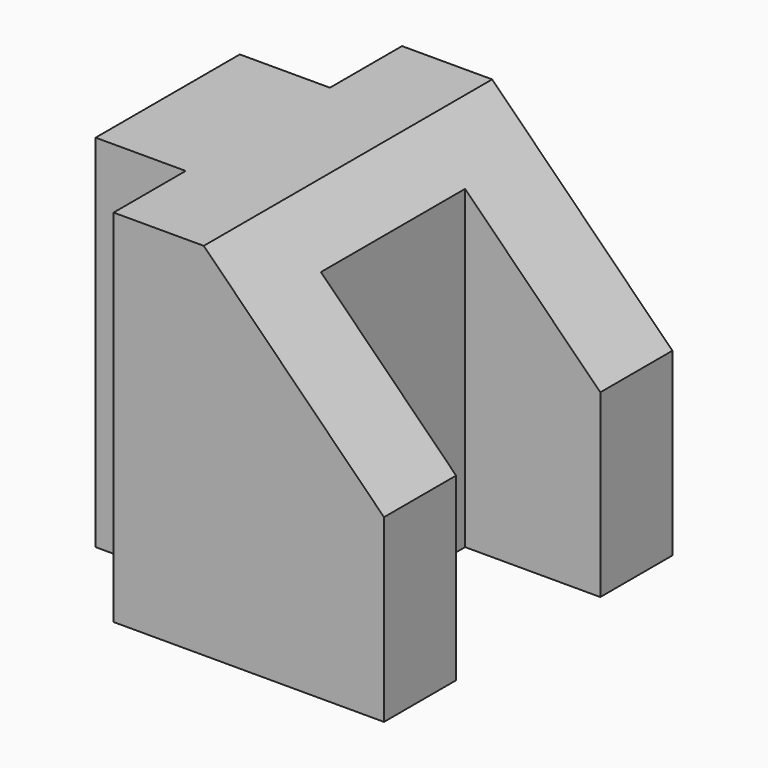
from build123d import *

# Parameters (mm, degrees)
F1_DEPTH = 25.4
F3_DEPTH = 50.801


with BuildPart() as f1:
    # F0 (on Top) → F1 (new body, symmetric)
    with BuildSketch(Plane.XY):
        Polygon((25.4, 50.8), (25.4, 0), (50.8, 0), (50.8, 12.7), (31.75, 12.7), (31.75, 38.1), (50.8, 38.1), (50.8, 50.8), align=None)
        Polygon((25.4, 50.8), (25.4, 0), (50.8, 0), (50.8, 12.7), (31.75, 12.7), (31.75, 38.1), (50.8, 38.1), (50.8, 50.8), align=None)
        Polygon((12.7, 12.7), (12.7, 0), (25.4, 0), (25.4, 50.8), (12.7, 50.8), (12.7, 38.1), (0, 38.1), (0, 12.7), align=None)
    extrude(amount=F1_DEPTH, both=True)

    # F2 (on face) → F3 (cut, through all)
    with BuildSketch(Plane.XZ):
        Polygon((25.4, 25.4), (50.8, 0), (50.8, 25.4), align=None)
    extrude(amount=-F3_DEPTH, mode=Mode.SUBTRACT)


solid = f1.part
